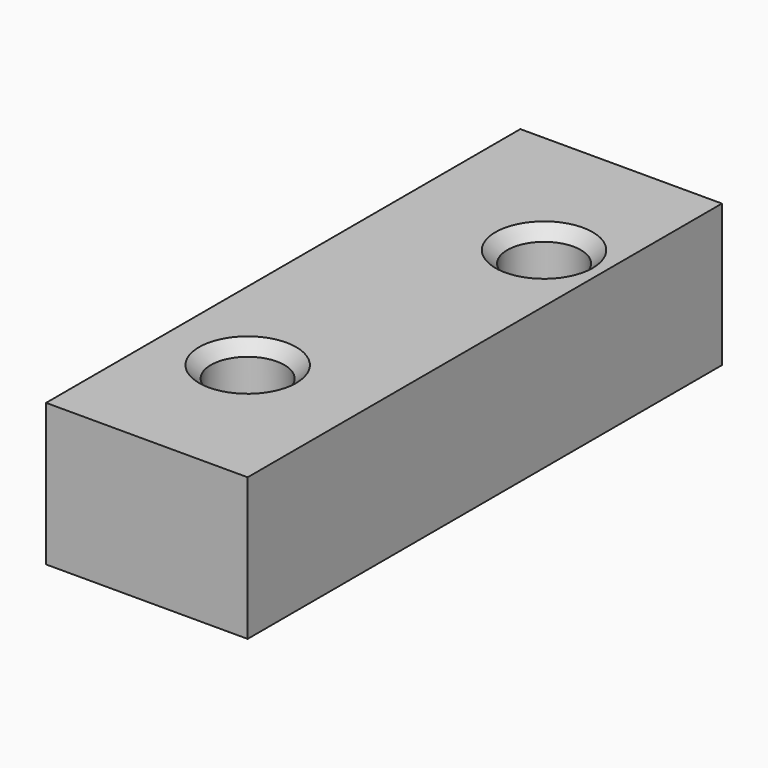
from build123d import *

# Parameters (mm, degrees)
F1_DEPTH      = 10
F1_DEPTH_BACK = 2
F3_R          = 1.9
F4_DEPTH      = 25
F2_R          = 3.1
F5_DEPTH      = 25
F6_SIZE       = 1


with BuildPart() as f1:
    # F0 (on Top) → F1 (new body, two sides)
    with BuildSketch(Plane.XY) as f1_sk:
        Polygon((8.5, 25), (0, 25), (-8.5, 25), (-8.5, 0), (-8.5, -25), (0, -25), (8.5, -25), (8.5, 0), align=None)
    extrude(amount=F1_DEPTH)
    extrude(f1_sk.sketch, amount=-F1_DEPTH_BACK)

    # F3 (on Top) → F4 (cut)
    with BuildSketch(Plane.XY):
        with Locations((3.5, 12.5)):
            Circle(F3_R)
        with Locations((-1.5, -12.5)):
            Circle(F3_R)
    extrude(amount=-F4_DEPTH, mode=Mode.SUBTRACT)

    # F2 (on Top) → F5 (cut)
    with BuildSketch(Plane.XY):
        with Locations((3.5, 12.5)):
            Circle(F2_R)
        with Locations((-1.5, -12.5)):
            Circle(F2_R)
    extrude(amount=F5_DEPTH, mode=Mode.SUBTRACT)

    # F6
    f6_edges = [f1.edges().sort_by_distance(p)[0] for p in [
        (-4.6, -12.5, 10),
        (0.4, 12.5, 10),
    ]]
    chamfer(f6_edges, length=F6_SIZE)


solid = f1.part
